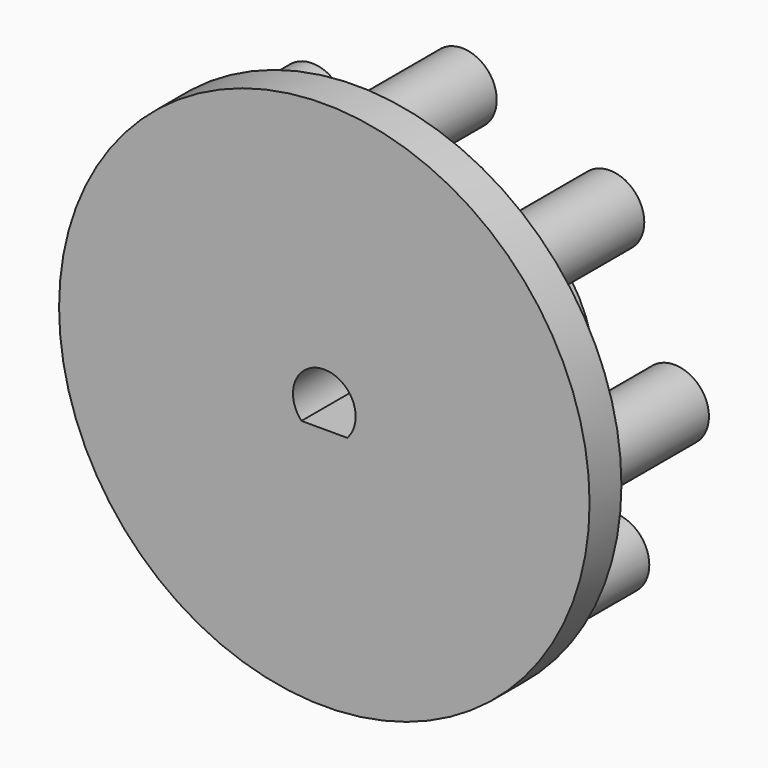
from build123d import *

# Parameters (mm, degrees)
F0_R          = 12.7
F0_R_2        = 6.35
F1_DEPTH      = 0.9525
F2_DEPTH      = 7.3025
F2_DEPTH_BACK = 0.9525
F3_R          = 1.651
F4_DEPTH      = 8.255


with BuildPart() as f1:
    # F0 (on Front) → F1 (new body, symmetric)
    with BuildSketch(Plane.XZ):
        Circle(F0_R)
        Circle(F0_R_2, mode=Mode.SUBTRACT)
    extrude(amount=F1_DEPTH, both=True)

    # F0 (on Front) → F2 (join, two sides)
    with BuildSketch(Plane.XZ) as f2_sk:
        Circle(F0_R_2)
        with BuildLine():
            ThreePointArc((-1.09601, -1.0240908553), (0, 1.5), (1.09601, -1.0240908553))
            Line((1.09601, -1.0240908553), (-1.09601, -1.0240908553))
        make_face(mode=Mode.SUBTRACT)
    extrude(amount=-F2_DEPTH)
    extrude(f2_sk.sketch, amount=F2_DEPTH_BACK)

    # F3 (on face) → F4 (join)
    with BuildSketch(Plane.XZ.offset(0.9525)):
        with Locations((0, 10.0402068998)):
            Circle(F3_R)
        with Locations((7.063929059, 7.1827068998)):
            Circle(F3_R)
        with Locations((7.3034819544, -7.1827068998)):
            Circle(F3_R)
        with Locations((0, -10.2797931002)):
            Circle(F3_R)
        with Locations((10.1592937556, 0)):
            Circle(F3_R)
        with Locations((-7.1837055067, 7.0649111522)):
            Circle(F3_R)
        with Locations((-10.1592937556, 0)):
            Circle(F3_R)
        with Locations((-7.1837055067, -7.3044973525)):
            Circle(F3_R)
    extrude(amount=-F4_DEPTH)


solid = f1.part
